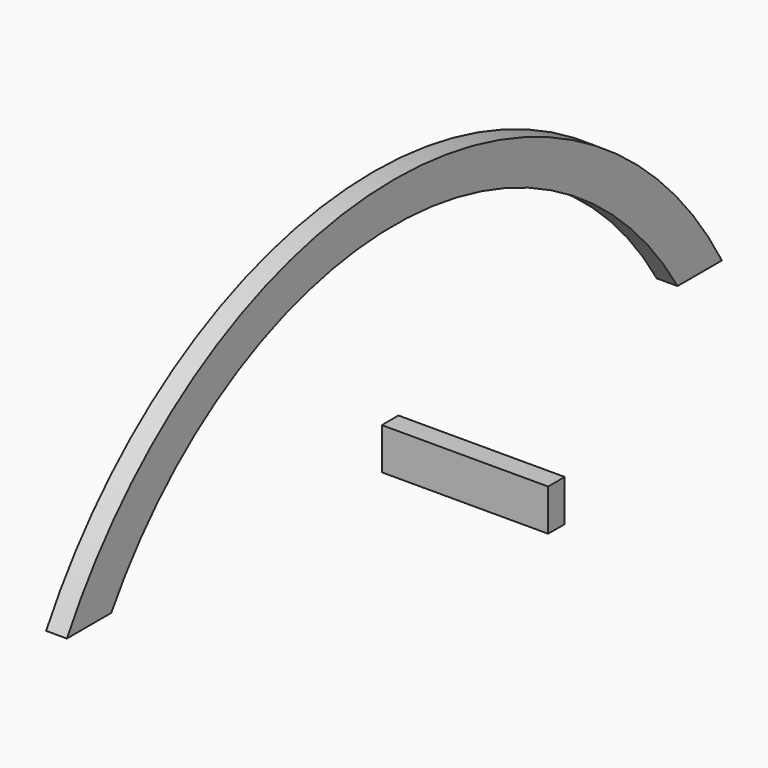
from build123d import *

# Parameters (mm, degrees)
F1_DEPTH = 38.1
F2_W     = 304.8
F2_H     = 76.2
F3_DEPTH = 38.1


with BuildPart() as f1:
    # F0 (on Right) → F1 (new body)
    with BuildSketch(Plane.YZ):
        with BuildLine():
            ThreePointArc((-620.367722, 0), (28.328177, 362.203013), (677.024075, 0))
            Line((677.024075, 0), (778.624075, 0))
            ThreePointArc((778.624075, 0), (28.328177, 435.977475), (-721.967722, 0))
            Line((-721.967722, 0), (-620.367722, 0))
        make_face()
    extrude(amount=F1_DEPTH)


with BuildPart() as f3:
    # F2 (on Front) → F3 (new body)
    with BuildSketch(Plane.XZ):
        with Locations((220.560755, 38.1)):
            Rectangle(F2_W, F2_H)
    extrude(amount=F3_DEPTH)


solid = Compound([f1.part, f3.part])
